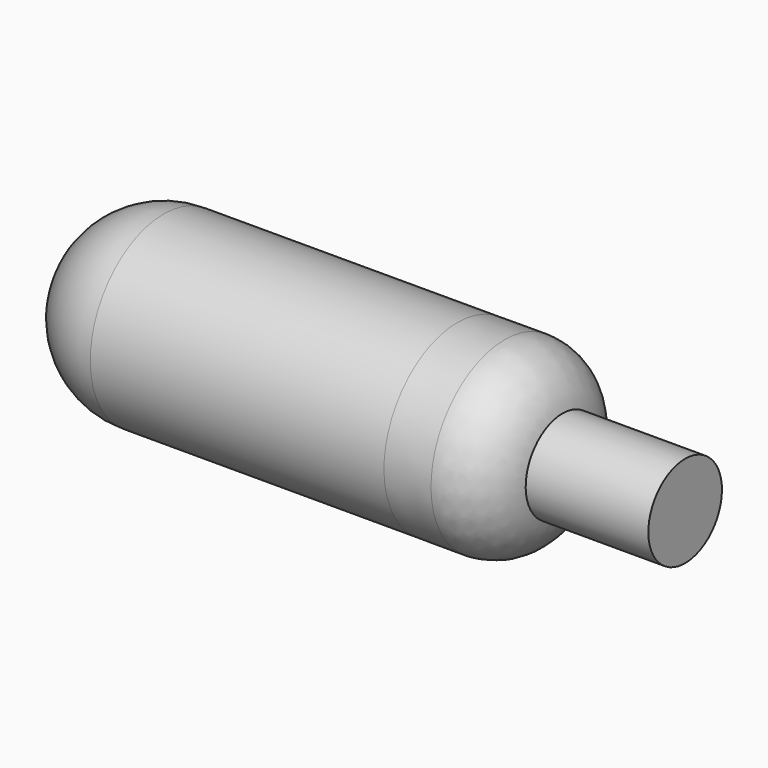
from build123d import *

# Parameters (mm, degrees)
F2_R = 9.525


with BuildPart() as f1:
    # F0 (on Front) → F1 (revolve)
    with BuildSketch(Plane.XZ):
        with BuildLine():
            ThreePointArc((60.3479125157, 7.0764967829), (58.1995043928, 10.5181723535), (54.3685550559, 11.854067325))
            Line((54.3685550559, 11.854067325), (49.4834460962, 11.8389967829))
            Line((49.4834460962, 11.8389967829), (9.5479125157, 11.8389967829))
            Line((9.5479125157, 11.8389967829), (9.5479125157, 2.3139967829))
            Line((9.5479125157, 2.3139967829), (73.0479125157, 2.3139967829))
            Line((73.0479125157, 2.3139967829), (73.0479125157, 7.0764967829))
            Line((73.0479125157, 7.0764967829), (60.3479125157, 7.0764967829))
        make_face()
    revolve(axis=Axis((41.2979125157, 0, 2.3139967829), (1, 0, 0)))

    # F2
    f2_edges = [f1.edges().sort_by_distance(p)[0] for p in [
        (9.547913, 0, -7.211003),
    ]]
    fillet(f2_edges, radius=F2_R)


solid = f1.part
